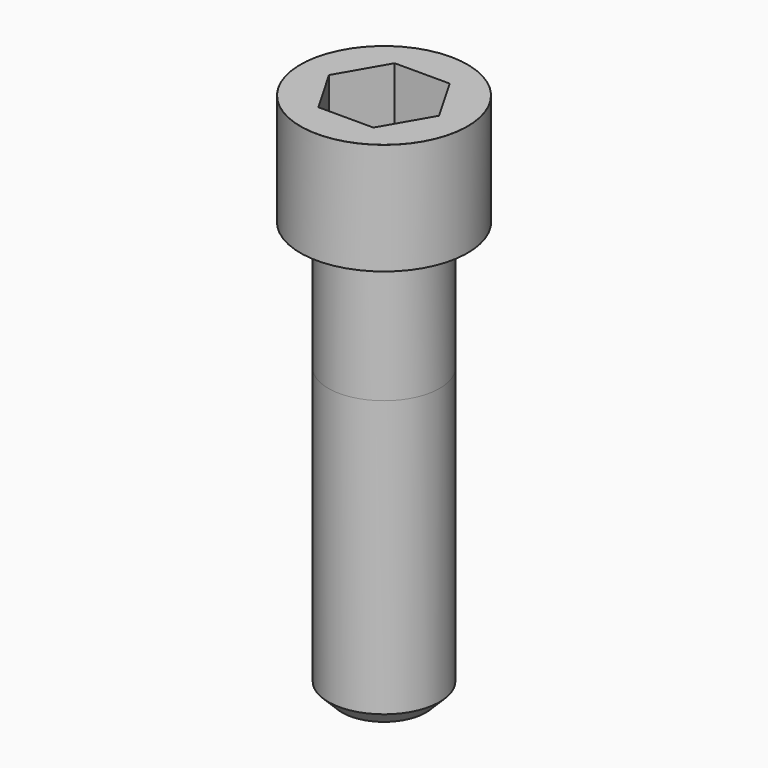
from build123d import *

# Parameters (mm, degrees)
POCKET_DEPTH = 17.1


with BuildPart() as part:
    # Sketch → Revolve (revolve)
    with BuildSketch(Plane.YZ):
        with BuildLine():
            Line((9.999, 0), (15, 0))
            Line((15, 0), (15, 19.97229))
            ThreePointArc((15, 19.97229), (14.991884, 19.991884), (14.97229, 20))
            Line((14.97229, 20), (0, 20))
            Line((0, -75), (0, 20))
            Line((7.5, -75), (0, -75))
            Line((10, -72.5), (7.5, -75))
            Line((10, -23), (10, -72.5))
            Line((9.999, 0), (10, -23))
        make_face()
    revolve(axis=Axis((0, 0, 0), (0, 0, 1)))

    # Sketch001 → Pocket (cut)
    with BuildSketch(Plane.XY.offset(20)):
        Polygon((9.87269, 0), (4.936345, 8.55), (-4.936345, 8.55), (-9.87269, 0), (-4.936345, -8.55), (4.936345, -8.55), align=None)
    extrude(amount=-POCKET_DEPTH, mode=Mode.SUBTRACT)


solid = part.part
